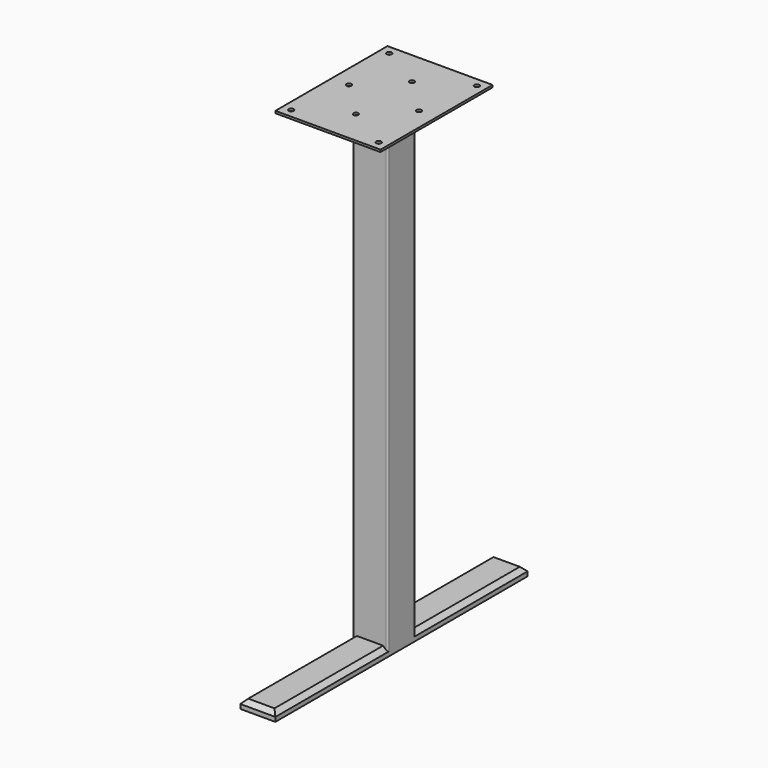
from build123d import *

# Parameters (mm, degrees)
F0_W     = 152.4
F0_H     = 203.2
F1_DEPTH = 3.175
F3_DEPTH = 25.4
F4_W     = 50.8
F4_H     = 50.8
F5_DEPTH = 679.45
F6_R     = 2.54
F8_DEPTH = 12.7
F9_SIZE2 = 6.35
F9_SIZE  = 6.35
F10_SIZE = 6.35


with BuildPart() as f1:
    # F0 (on Top) → F1 (new body)
    with BuildSketch(Plane.XY):
        Rectangle(F0_W, F0_H)
    extrude(amount=F1_DEPTH)

    # F2 (on face) → F3 (cut)
    with BuildSketch(Plane.XY.offset(3.175)):
        with BuildLine():
            Line((-2.523452, 48.276548), (0, 50.8))
            Line((0, 50.8), (2.523452, 48.276548))
            ThreePointArc((2.523452, 48.276548), (3.297049, 49.434318), (3.5687, 50.8))
            ThreePointArc((3.5687, 50.8), (-1.365682, 54.097049), (-2.523452, 48.276548))
        make_face()
        with BuildLine():
            Line((2.523452, 48.276548), (0, 50.8))
            Line((0, 50.8), (-2.523452, 48.276548))
            ThreePointArc((-2.523452, 48.276548), (0, 47.2313), (2.523452, 48.276548))
        make_face()
        with BuildLine():
            Line((-50.8, 0), (-48.276548, 2.523452))
            ThreePointArc((-48.276548, 2.523452), (-54.3687, 0), (-48.276548, -2.523452))
            Line((-48.276548, -2.523452), (-50.8, 0))
        make_face()
        with BuildLine():
            ThreePointArc((-47.2313, 0), (-47.502951, 1.365682), (-48.276548, 2.523452))
            Line((-48.276548, 2.523452), (-50.8, 0))
            Line((-50.8, 0), (-48.276548, -2.523452))
            ThreePointArc((-48.276548, -2.523452), (-47.502951, -1.365682), (-47.2313, 0))
        make_face()
        with BuildLine():
            Line((50.8, 0), (48.276548, 2.523452))
            ThreePointArc((48.276548, 2.523452), (47.2313, 0), (48.276548, -2.523452))
            Line((48.276548, -2.523452), (50.8, 0))
        make_face()
        with BuildLine():
            ThreePointArc((54.3687, 0), (52.165682, 3.297049), (48.276548, 2.523452))
            Line((48.276548, 2.523452), (50.8, 0))
            Line((50.8, 0), (48.276548, -2.523452))
            ThreePointArc((48.276548, -2.523452), (52.165682, -3.297049), (54.3687, 0))
        make_face()
        with BuildLine():
            Line((0, -50.8), (2.523452, -48.276548))
            ThreePointArc((2.523452, -48.276548), (0, -47.2313), (-2.523452, -48.276548))
            Line((-2.523452, -48.276548), (0, -50.8))
        make_face()
        with BuildLine():
            ThreePointArc((3.5687, -50.8), (3.297049, -49.434318), (2.523452, -48.276548))
            Line((2.523452, -48.276548), (0, -50.8))
            Line((0, -50.8), (-2.523452, -48.276548))
            ThreePointArc((-2.523452, -48.276548), (-1.365682, -54.097049), (3.5687, -50.8))
        make_face()
        with BuildLine():
            ThreePointArc((-59.9313, -88.9), (-60.976548, -86.376548), (-63.5, -85.3313))
            Line((-63.5, -85.3313), (-63.5, -88.9))
            Line((-63.5, -88.9), (-59.9313, -88.9))
        make_face()
        with BuildLine():
            Line((-63.5, -88.9), (-63.5, -85.3313))
            ThreePointArc((-63.5, -85.3313), (-66.023452, -91.423452), (-59.9313, -88.9))
            Line((-59.9313, -88.9), (-63.5, -88.9))
        make_face()
        with BuildLine():
            Line((63.5, -88.9), (63.5, -85.3313))
            ThreePointArc((63.5, -85.3313), (60.976548, -86.376548), (59.9313, -88.9))
            Line((59.9313, -88.9), (63.5, -88.9))
        make_face()
        with BuildLine():
            ThreePointArc((67.0687, -88.9), (66.023452, -86.376548), (63.5, -85.3313))
            Line((63.5, -85.3313), (63.5, -88.9))
            Line((63.5, -88.9), (59.9313, -88.9))
            ThreePointArc((59.9313, -88.9), (63.5, -92.4687), (67.0687, -88.9))
        make_face()
        with BuildLine():
            ThreePointArc((67.0687, 88.9), (63.5, 92.4687), (59.9313, 88.9))
            Line((59.9313, 88.9), (63.5, 88.9))
            Line((63.5, 88.9), (63.5, 85.3313))
            ThreePointArc((63.5, 85.3313), (66.023452, 86.376548), (67.0687, 88.9))
        make_face()
        with BuildLine():
            Line((63.5, 88.9), (59.9313, 88.9))
            ThreePointArc((59.9313, 88.9), (60.976548, 86.376548), (63.5, 85.3313))
            Line((63.5, 85.3313), (63.5, 88.9))
        make_face()
        with BuildLine():
            Line((-63.5, 88.9), (-59.9313, 88.9))
            ThreePointArc((-59.9313, 88.9), (-66.023452, 91.423452), (-63.5, 85.3313))
            Line((-63.5, 85.3313), (-63.5, 88.9))
        make_face()
        with BuildLine():
            ThreePointArc((-63.5, 85.3313), (-60.976548, 86.376548), (-59.9313, 88.9))
            Line((-59.9313, 88.9), (-63.5, 88.9))
            Line((-63.5, 88.9), (-63.5, 85.3313))
        make_face()
    extrude(amount=-F3_DEPTH, mode=Mode.SUBTRACT)

    # F4 (on face) → F5 (join)
    with BuildSketch(Plane(origin=(0, 0, 0), x_dir=(1, 0, 0), z_dir=(0, 0, -1))):
        Rectangle(F4_W, F4_H)
    extrude(amount=F5_DEPTH)

    # F6
    f6_edges = [f1.edges().sort_by_distance(p)[0] for p in [
        (-25.4, -25.4, -339.725),
        (25.4, -25.4, -339.725),
        (25.4, 25.4, -339.725),
        (-25.4, 25.4, -339.725),
    ]]
    fillet(f6_edges, radius=F6_R)

    # F7 (on face) → F8 (join)
    with BuildSketch(Plane(origin=(0, 0, -679.45), x_dir=(1, 0, 0), z_dir=(0, 0, -1))):
        with BuildLine():
            Line((25.4, 22.86), (25.4, 228.6))
            Line((25.4, 228.6), (-25.4, 228.6))
            Line((-25.4, 228.6), (-25.4, 22.86))
            ThreePointArc((-25.4, 22.86), (-24.656051, 24.656051), (-22.86, 25.4))
            Line((-22.86, 25.4), (22.86, 25.4))
            ThreePointArc((22.86, 25.4), (24.656051, 24.656051), (25.4, 22.86))
        make_face()
        with BuildLine():
            Line((25.4, -228.6), (25.4, -22.86))
            ThreePointArc((25.4, -22.86), (24.656051, -24.656051), (22.86, -25.4))
            Line((22.86, -25.4), (-22.86, -25.4))
            ThreePointArc((-22.86, -25.4), (-24.656051, -24.656051), (-25.4, -22.86))
            Line((-25.4, -22.86), (-25.4, -228.6))
            Line((-25.4, -228.6), (25.4, -228.6))
        make_face()
        with BuildLine():
            Line((25.4, -22.86), (25.4, 22.86))
            ThreePointArc((25.4, 22.86), (24.656051, 24.656051), (22.86, 25.4))
            Line((22.86, 25.4), (-22.86, 25.4))
            ThreePointArc((-22.86, 25.4), (-24.656051, 24.656051), (-25.4, 22.86))
            Line((-25.4, 22.86), (-25.4, -22.86))
            ThreePointArc((-25.4, -22.86), (-24.656051, -24.656051), (-22.86, -25.4))
            Line((-22.86, -25.4), (22.86, -25.4))
            ThreePointArc((22.86, -25.4), (24.656051, -24.656051), (25.4, -22.86))
        make_face()
    extrude(amount=F8_DEPTH)

    # F9
    f9_edges = [f1.edges().sort_by_distance(p)[0] for p in [
        (0, -228.6, -679.45),
        (0, 228.6, -679.45),
    ]]
    chamfer(f9_edges, length=F9_SIZE, length2=F9_SIZE2)

    # F10
    f10_edges = [f1.edges().sort_by_distance(p)[0] for p in [
        (25.4, -122.555, -679.45),
        (25.4, 122.555, -679.45),
        (-25.4, -122.555, -679.45),
        (-25.4, 122.555, -679.45),
    ]]
    chamfer(f10_edges, length=F10_SIZE)


solid = f1.part
